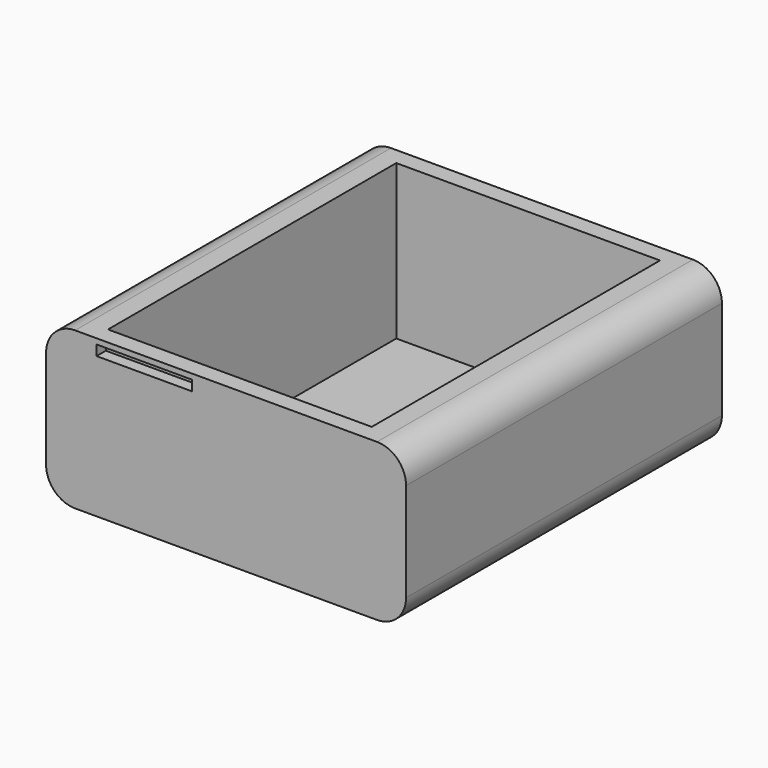
from build123d import *

# Parameters (mm, degrees)
F1_DEPTH = 43.18
F2_W     = 57.685676
F2_H     = 78.818068
F3_DEPTH = 33.782
F4_W     = 20.835391
F4_H     = 2.243813
F5_DEPTH = 2.54


with BuildPart() as f1:
    # F0 (on Front) → F1 (new body, symmetric)
    with BuildSketch(Plane.XZ):
        with BuildLine():
            ThreePointArc((-39.37, -12.180453), (-37.510128, -16.670581), (-33.02, -18.530453))
            Line((-33.02, -18.530453), (33.02, -18.530453))
            ThreePointArc((33.02, -18.530453), (37.510128, -16.670581), (39.37, -12.180453))
            Line((39.37, -12.180453), (39.37, 9.409547))
            ThreePointArc((39.37, 9.409547), (37.510128, 13.899675), (33.02, 15.759547))
            Line((33.02, 15.759547), (-33.02, 15.759547))
            ThreePointArc((-33.02, 15.759547), (-37.510128, 13.899675), (-39.37, 9.409547))
            Line((-39.37, 9.409547), (-39.37, -12.180453))
        make_face()
    extrude(amount=F1_DEPTH, both=True)

    # F2 (on face) → F3 (cut)
    with BuildSketch(Plane.XY.offset(15.759547)):
        Rectangle(F2_W, F2_H)
    extrude(amount=-F3_DEPTH, mode=Mode.SUBTRACT)

    # F4 (on face) → F5 (cut)
    with BuildSketch(Plane.XZ.offset(43.18)):
        with Locations((-17.922866, 13.451327)):
            Rectangle(F4_W, F4_H)
    extrude(amount=-F5_DEPTH, mode=Mode.SUBTRACT)


solid = f1.part
